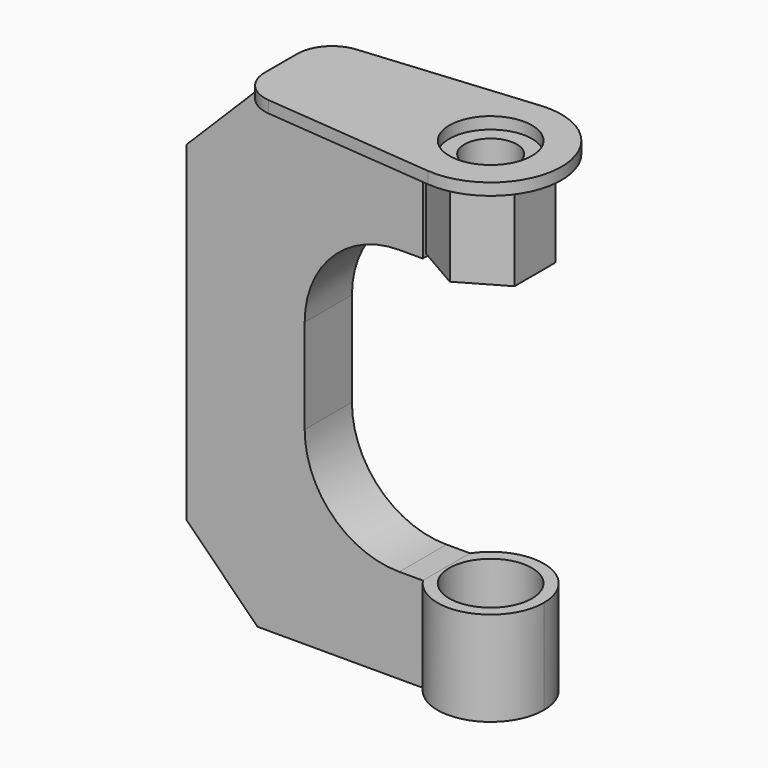
from build123d import *

# Parameters (mm, degrees)
F1_DEPTH  = 31.75
F2_SIZE   = 38.1
F3_R      = 50.8
F5_DEPTH  = 49.276
F7_D      = 28.17876
F8_R      = 22.225
F9_DEPTH  = 50.8
F10_R     = 22.225
F11_DEPTH = 6.35
F12_R     = 18.6594688317


with BuildPart() as f1:
    # F0 (on Front) → F1 (new body)
    with BuildSketch(Plane.XZ):
        Polygon((0, 254), (0, 0), (127, 0), (127, 50.8), (63.5, 50.8), (63.5, 203.2), (127, 203.2), (127, 254), align=None)
    extrude(amount=F1_DEPTH)

    # F2
    f2_edges = [f1.edges().sort_by_distance(p)[0] for p in [
        (0, -15.875, 254),
        (0, -15.875, 0),
    ]]
    chamfer(f2_edges, length=F2_SIZE)

    # F3
    f3_edges = [f1.edges().sort_by_distance(p)[0] for p in [
        (63.5, -15.875, 203.2),
        (63.5, -15.875, 50.8),
    ]]
    fillet(f3_edges, radius=F3_R)


with BuildPart() as f5:
    # F4 (on face) → F5 (new body)
    with BuildSketch(Plane.XY.offset(254)):
        Polygon((127, -29.6231532851), (150.8125, -43.3713065702), (174.625, -29.6231532851), (174.625, -2.1268467149), (150.8125, 11.6213065702), (127, -2.1268467149), align=None)
    extrude(amount=-F5_DEPTH)

    # F7 (through all)
    with Locations(Plane.XY.offset(254)):
        with Locations((150.8125, -15.875)):
            Hole(F7_D / 2)


with BuildPart() as f9:
    # F8 (on face) → F9 (new body)
    with BuildSketch(Plane(origin=(0, 0, 0), x_dir=(1, 0, 0), z_dir=(0, 0, -1))):
        with BuildLine():
            ThreePointArc((127, 0.0795744359), (159.061391971, -11.4834796041), (179.3875, 15.875))
            ThreePointArc((179.3875, 15.875), (159.061391971, 43.2334796041), (127, 31.6704255641))
            Line((127, 31.6704255641), (127, 0.0795744359))
        make_face()
        with Locations((150.8125, 15.875)):
            Circle(F8_R, mode=Mode.SUBTRACT)
    extrude(amount=-F9_DEPTH)


with BuildPart() as f11:
    # F10 (on face) → F11 (new body)
    with BuildSketch(Plane.XY.offset(254)):
        with BuildLine():
            Line((38.1, -43.8292118832), (147.3436929141, -53.8167629717))
            ThreePointArc((147.3436929141, -53.8167629717), (188.9125, -15.875), (147.3436929141, 22.0667629717))
            Line((147.3436929141, 22.0667629717), (38.1, 12.0792118832))
            Line((38.1, 12.0792118832), (38.1, 0))
            Line((38.1, 0), (127, 0))
            Line((127, 0), (127, -31.75))
            Line((127, -31.75), (38.1, -31.75))
            Line((38.1, -31.75), (38.1, -43.8292118832))
        make_face()
        with Locations((150.8125, -15.875)):
            Circle(F10_R, mode=Mode.SUBTRACT)
        Polygon((38.1, -15.875), (38.1, -31.75), (127, -31.75), (127, 0), (38.1, 0), align=None)
    extrude(amount=F11_DEPTH)

    # F12
    f12_edges = [f11.edges().sort_by_distance(p)[0] for p in [
        (38.1, -43.829212, 257.175),
        (38.1, 12.079212, 257.175),
    ]]
    fillet(f12_edges, radius=F12_R)


solid = Compound([f1.part, f5.part, f9.part, f11.part])
